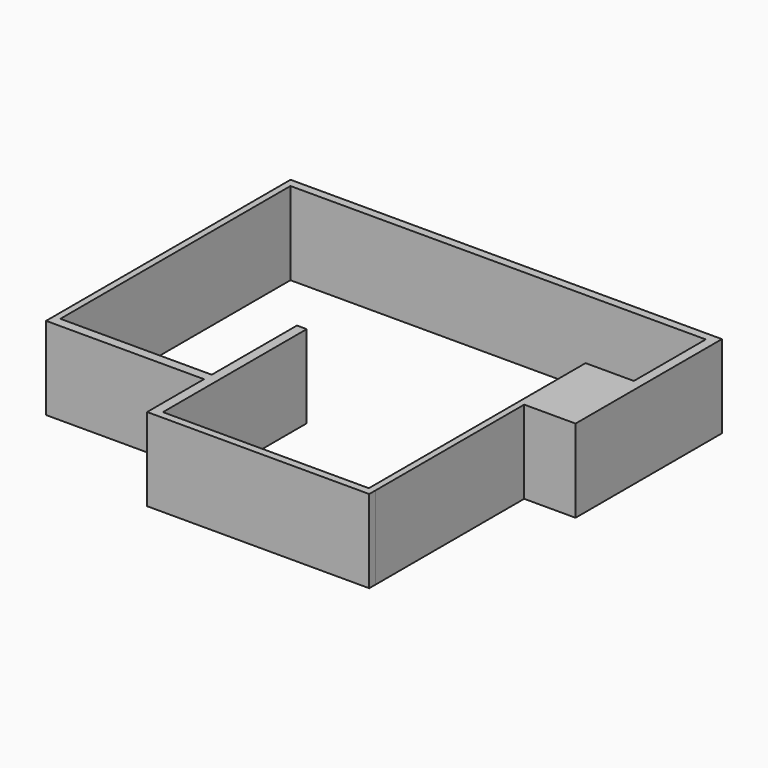
from build123d import *

# Parameters (mm, degrees)
F0_W     = 45.6249145791
F0_H     = 2.5061145425
F0_H_2   = 2.9115714133
F0_W_2   = 2.8638616204
F0_H_3   = 25.5405409262
F0_W_3   = 12.6152541488
F0_W_4   = 1.9348878413
F1_DEPTH = 25
F2_DEPTH = 25
F3_DEPTH = 25


with BuildPart() as f1:
    # F0 (on Top) → F1 (new body)
    with BuildSketch(Plane.XY):
        Polygon((-57.3309957981, 49.4364239275), (-59.3043640256, 49.4364239275), (-59.3043640256, 21.3805288076), (-59.3043640256, 8.8931322098), (-57.3309957981, 8.8931322098), (-57.3309957981, 46.9303093851), align=None)
        with Locations((-34.5185385086, 48.1833666563)):
            Rectangle(F0_W, F0_H)
        Polygon((39.7619791329, 49.4364239275), (-11.706081219, 49.4364239275), (-11.706081219, 46.9303093851), (-8.7652672082, 46.9303093851), (37.0916128159, 46.9303093851), (39.7619791329, 46.9303093851), align=None)
        Polygon((-57.3309957981, 8.8931322098), (-59.3043640256, 8.8931322098), (-59.3043640256, -42.6643118262), (-57.3309957981, -42.6643118262), (-57.3309957981, -39.752740413), (-57.3309957981, 6.6846082918), align=None)
        Polygon((70.7202106714, 49.4364239275), (39.7619791329, 49.4364239275), (39.7619791329, 46.9303093851), (67.856349051, 46.9303093851), (70.7202106714, 46.9303093851), align=None)
        with Locations((-34.5185385086, -41.2085261196)):
            Rectangle(F0_W, F0_H_2)
        Polygon((-8.7652672082, -61.8197210133), (-8.7652672082, -7.6428134926), (-11.706081219, -7.6428134926), (-11.706081219, -39.752740413), (-11.706081219, -42.6643118262), (-11.706081219, -61.8197210133), align=None)
        Polygon((70.7202106714, 46.9303093851), (67.856349051, 46.9303093851), (67.856349051, 22.3572142422), (67.856349051, 19.8326166719), (70.7202106714, 19.8326166719), align=None)
        Polygon((39.7619791329, -61.8197210133), (-8.7652672082, -61.8197210133), (-11.706081219, -61.8197210133), (-11.706081219, -64.0913546085), (55.2384853363, -64.0913546085), (55.2384853363, -61.8197210133), (53.3062070608, -61.8197210133), align=None)
        with Locations((69.2882798612, 7.0623462088)):
            Rectangle(F0_W_2, F0_H_3)
        with Locations((61.5487219766, 7.0623462088)):
            Rectangle(F0_W_3, F0_H_3)
        Polygon((53.3062070608, -23.8958857954), (53.3062070608, -61.8197210133), (55.2384853363, -61.8197210133), (55.2410949022, -61.8197210133), (55.2410949022, -5.7079242542), (53.3062070608, -5.7079242542), (53.3062070608, -20.9843106568), align=None)
        with Locations((54.2736509815, 7.0623462088)):
            Rectangle(F0_W_4, F0_H_3)
    extrude(amount=F1_DEPTH)

    # F0 (on Top) → F2 (join)
    with BuildSketch(Plane.XY):
        Polygon((-57.3309957981, 49.4364239275), (-59.3043640256, 49.4364239275), (-59.3043640256, 21.3805288076), (-59.3043640256, 8.8931322098), (-57.3309957981, 8.8931322098), (-57.3309957981, 46.9303093851), align=None)
        with Locations((-34.5185385086, 48.1833666563)):
            Rectangle(F0_W, F0_H)
        Polygon((39.7619791329, 49.4364239275), (-11.706081219, 49.4364239275), (-11.706081219, 46.9303093851), (-8.7652672082, 46.9303093851), (37.0916128159, 46.9303093851), (39.7619791329, 46.9303093851), align=None)
        Polygon((-57.3309957981, 8.8931322098), (-59.3043640256, 8.8931322098), (-59.3043640256, -42.6643118262), (-57.3309957981, -42.6643118262), (-57.3309957981, -39.752740413), (-57.3309957981, 6.6846082918), align=None)
        Polygon((70.7202106714, 49.4364239275), (39.7619791329, 49.4364239275), (39.7619791329, 46.9303093851), (67.856349051, 46.9303093851), (70.7202106714, 46.9303093851), align=None)
        with Locations((-34.5185385086, -41.2085261196)):
            Rectangle(F0_W, F0_H_2)
        Polygon((-8.7652672082, -61.8197210133), (-8.7652672082, -7.6428134926), (-11.706081219, -7.6428134926), (-11.706081219, -39.752740413), (-11.706081219, -42.6643118262), (-11.706081219, -61.8197210133), align=None)
        Polygon((70.7202106714, 46.9303093851), (67.856349051, 46.9303093851), (67.856349051, 22.3572142422), (67.856349051, 19.8326166719), (70.7202106714, 19.8326166719), align=None)
        Polygon((39.7619791329, -61.8197210133), (-8.7652672082, -61.8197210133), (-11.706081219, -61.8197210133), (-11.706081219, -64.0913546085), (55.2384853363, -64.0913546085), (55.2384853363, -61.8197210133), (53.3062070608, -61.8197210133), align=None)
        with Locations((69.2882798612, 7.0623462088)):
            Rectangle(F0_W_2, F0_H_3)
        with Locations((61.5487219766, 7.0623462088)):
            Rectangle(F0_W_3, F0_H_3)
        Polygon((53.3062070608, -23.8958857954), (53.3062070608, -61.8197210133), (55.2384853363, -61.8197210133), (55.2410949022, -61.8197210133), (55.2410949022, -5.7079242542), (53.3062070608, -5.7079242542), (53.3062070608, -20.9843106568), align=None)
        with Locations((54.2736509815, 7.0623462088)):
            Rectangle(F0_W_4, F0_H_3)
    extrude(amount=F2_DEPTH)

    # F0 (on Top) → F3 (join)
    with BuildSketch(Plane.XY):
        Polygon((-57.3309957981, 49.4364239275), (-59.3043640256, 49.4364239275), (-59.3043640256, 21.3805288076), (-59.3043640256, 8.8931322098), (-57.3309957981, 8.8931322098), (-57.3309957981, 46.9303093851), align=None)
        with Locations((-34.5185385086, 48.1833666563)):
            Rectangle(F0_W, F0_H)
        Polygon((39.7619791329, 49.4364239275), (-11.706081219, 49.4364239275), (-11.706081219, 46.9303093851), (-8.7652672082, 46.9303093851), (37.0916128159, 46.9303093851), (39.7619791329, 46.9303093851), align=None)
        Polygon((-57.3309957981, 8.8931322098), (-59.3043640256, 8.8931322098), (-59.3043640256, -42.6643118262), (-57.3309957981, -42.6643118262), (-57.3309957981, -39.752740413), (-57.3309957981, 6.6846082918), align=None)
        Polygon((70.7202106714, 49.4364239275), (39.7619791329, 49.4364239275), (39.7619791329, 46.9303093851), (67.856349051, 46.9303093851), (70.7202106714, 46.9303093851), align=None)
        with Locations((-34.5185385086, -41.2085261196)):
            Rectangle(F0_W, F0_H_2)
        Polygon((-8.7652672082, -61.8197210133), (-8.7652672082, -7.6428134926), (-11.706081219, -7.6428134926), (-11.706081219, -39.752740413), (-11.706081219, -42.6643118262), (-11.706081219, -61.8197210133), align=None)
        Polygon((70.7202106714, 46.9303093851), (67.856349051, 46.9303093851), (67.856349051, 22.3572142422), (67.856349051, 19.8326166719), (70.7202106714, 19.8326166719), align=None)
        Polygon((39.7619791329, -61.8197210133), (-8.7652672082, -61.8197210133), (-11.706081219, -61.8197210133), (-11.706081219, -64.0913546085), (55.2384853363, -64.0913546085), (55.2384853363, -61.8197210133), (53.3062070608, -61.8197210133), align=None)
        with Locations((69.2882798612, 7.0623462088)):
            Rectangle(F0_W_2, F0_H_3)
        with Locations((61.5487219766, 7.0623462088)):
            Rectangle(F0_W_3, F0_H_3)
        Polygon((53.3062070608, -23.8958857954), (53.3062070608, -61.8197210133), (55.2384853363, -61.8197210133), (55.2410949022, -61.8197210133), (55.2410949022, -5.7079242542), (53.3062070608, -5.7079242542), (53.3062070608, -20.9843106568), align=None)
        with Locations((54.2736509815, 7.0623462088)):
            Rectangle(F0_W_4, F0_H_3)
    extrude(amount=F3_DEPTH)


solid = f1.part
